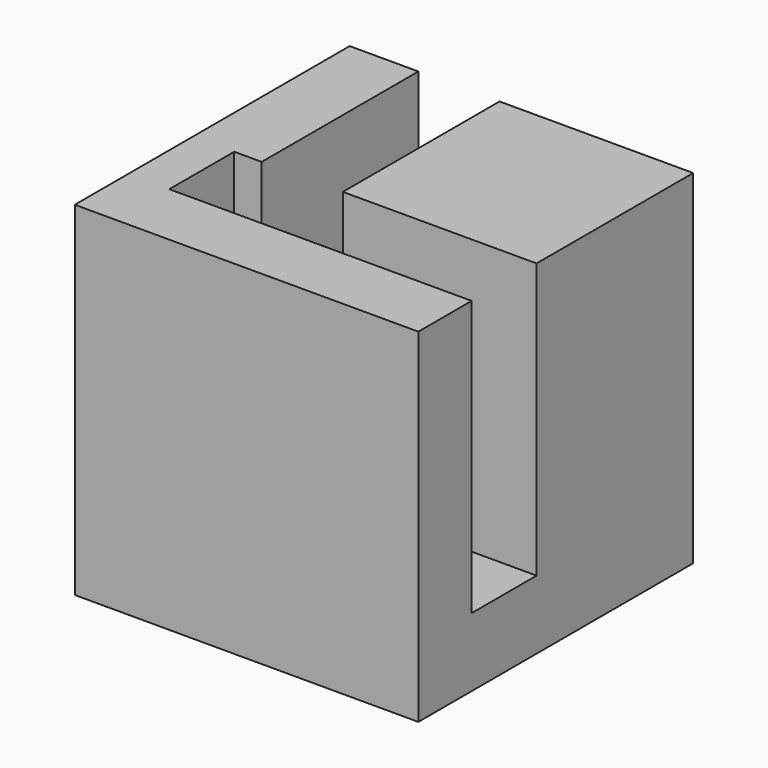
from build123d import *

# Parameters (mm, degrees)
F0_W     = 7.16
F0_H     = 7.2381474632
F1_DEPTH = 10.16
F2_W     = 7.16
F2_H     = 7.2381474632
F3_DEPTH = 2.54


with BuildPart() as f1:
    # F0 (on Top) → F1 (new body)
    with BuildSketch(Plane.XY):
        with Locations((-5.8439813066, -2.7033329925)):
            Rectangle(F0_W, F0_H)
    extrude(amount=F1_DEPTH)



with BuildPart() as f1b:
    # F0 (on Top) → F1, piece 2 (new body)
    with BuildSketch(Plane.XY):
        Polygon((-12.4239813066, 0.9157407391), (-14.9639813066, 0.9157407391), (-14.9639813066, -11.7842592609), (-2.2639813066, -11.7842592609), (-2.2639813066, -9.3224067241), (-9.4239813066, -9.3224067241), (-12.4239813066, -9.3224067241), (-13.4399813066, -9.3224067241), (-13.4399813066, -6.3224067241), (-12.4239813066, -6.3224067241), align=None)
    extrude(amount=F1_DEPTH)


with BuildPart() as f1_1:
    add(f1.part)

    add(f1b.part)  # F3 merges F1b
    # F2 (on face) → F3 (join)
    with BuildSketch(Plane(origin=(0, 0, 0), x_dir=(1, 0, 0), z_dir=(0, 0, -1))):
        with Locations((-5.8439813066, 2.7033329925)):
            Rectangle(F2_W, F2_H)
        Polygon((-2.2639813066, 9.3224067241), (-13.4399813066, 9.3224067241), (-13.4399813066, 6.3224067241), (-12.4239813066, 6.3224067241), (-12.4239813066, -0.9157407391), (-9.4239813066, -0.9157407391), (-9.4239813066, 6.3224067241), (-2.2639813066, 6.3224067241), align=None)
        Polygon((-13.4399813066, 6.3224067241), (-13.4399813066, 9.3224067241), (-2.2639813066, 9.3224067241), (-2.2639813066, 11.7842592609), (-14.9639813066, 11.7842592609), (-14.9639813066, -0.9157407391), (-12.4239813066, -0.9157407391), (-12.4239813066, 6.3224067241), align=None)
    extrude(amount=F3_DEPTH)


solid = f1_1.part
